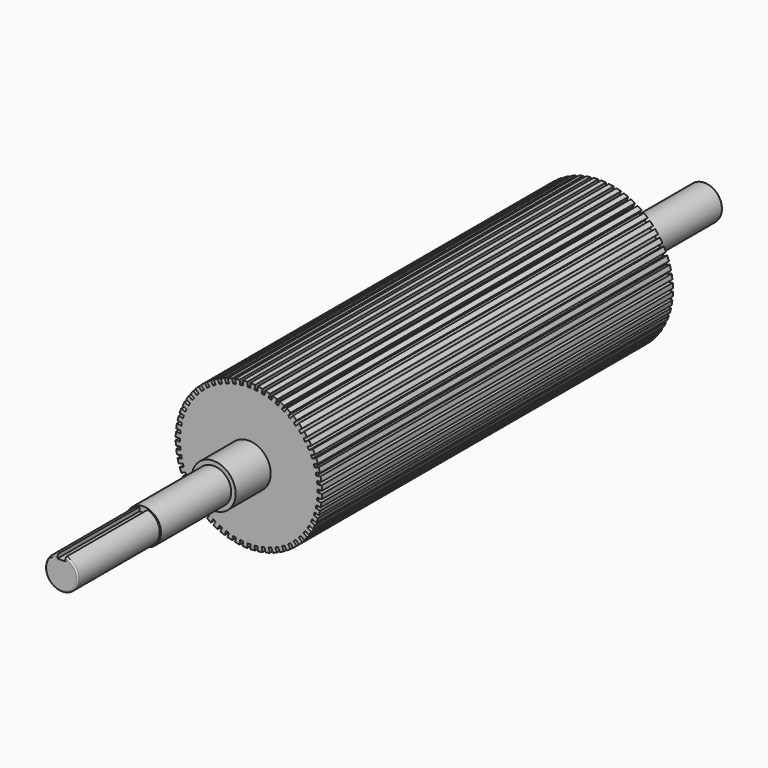
from build123d import *

# Parameters (mm, degrees)
F1_DEPTH = 150
F2_R     = 15
F3_DEPTH = 30
F5_R     = 12.0006643515
F6_DEPTH = 60
F9_DEPTH = 70
F10_R    = 1
F11_R    = 1


with BuildPart() as f1:
    # F0 (on Front) → F1 (new body, symmetric)
    with BuildSketch(Plane.XZ):
        with BuildLine():
            Line((47, 1), (49.9899989998, 1))
            ThreePointArc((49.9899989998, 1), (49.9314767377, 2.6167978121), (49.820677018, 4.2308558788))
            Line((49.820677018, 4.2308558788), (46.8470575456, 3.9183158782))
            Line((46.8470575456, 3.9183158782), (46.7425290823, 4.9128377736))
            Line((46.7425290823, 4.9128377736), (46.638000619, 5.9073596689))
            Line((46.638000619, 5.9073596689), (49.6116200915, 6.2198996696))
            ThreePointArc((49.6116200915, 6.2198996696), (49.3844170298, 7.821723252), (49.1055092732, 9.4153576153))
            Line((49.1055092732, 9.4153576153), (46.1808489253, 8.7937018677))
            Line((46.1808489253, 8.7937018677), (45.9729372345, 9.7718494684))
            Line((45.9729372345, 9.7718494684), (45.7650255437, 10.7499970692))
            Line((45.7650255437, 10.7499970692), (48.6896858915, 11.3716528168))
            ThreePointArc((48.6896858915, 11.3716528168), (48.2962913145, 12.9409522551), (47.8523312927, 14.4967027234))
            Line((47.8523312927, 14.4967027234), (45.0086732602, 13.5727422193))
            Line((45.0086732602, 13.5727422193), (44.6996562659, 14.5237987356))
            Line((44.6996562659, 14.5237987356), (44.3906392715, 15.4748552519))
            Line((44.3906392715, 15.4748552519), (47.234297304, 16.398815756))
            ThreePointArc((47.234297304, 16.398815756), (46.6790213249, 17.9183974773), (46.0748731569, 19.4192189229))
            Line((46.0748731569, 19.4192189229), (43.3433731523, 18.2030767669))
            Line((43.3433731523, 18.2030767669), (42.9366365092, 19.1166222246))
            Line((42.9366365092, 19.1166222246), (42.5298998661, 20.0301676822))
            Line((42.5298998661, 20.0301676822), (45.2613998707, 21.2463098382))
            ThreePointArc((45.2613998707, 21.2463098382), (44.5503262094, 22.699524987), (43.792609069, 24.1289740961))
            Line((43.792609069, 24.1289740961), (41.2031939779, 22.6339745962))
            Line((41.2031939779, 22.6339745962), (40.7031939779, 23.5))
            Line((40.7031939779, 23.5), (40.2031939779, 24.3660254038))
            Line((40.2031939779, 24.3660254038), (42.792609069, 25.8610249037))
            ThreePointArc((42.792609069, 25.8610249037), (41.9335283973, 27.2319517508), (41.0305439919, 28.5743671798))
            Line((41.0305439919, 28.5743671798), (38.6115839879, 26.8168898634))
            Line((38.6115839879, 26.8168898634), (38.0237987356, 27.6259068577))
            Line((38.0237987356, 27.6259068577), (37.4360134833, 28.4349238521))
            Line((37.4360134833, 28.4349238521), (39.8549734873, 30.1924011686))
            ThreePointArc((39.8549734873, 30.1924011686), (38.8572980728, 31.4660195525), (37.8189396887, 32.7066935171))
            Line((37.8189396887, 32.7066935171), (35.5969374038, 30.7059936734))
            Line((35.5969374038, 30.7059936734), (34.9278067974, 31.4491384989))
            Line((34.9278067974, 31.4491384989), (34.2586761911, 32.1922833243))
            Line((34.2586761911, 32.1922833243), (36.480678476, 34.1929831681))
            ThreePointArc((36.480678476, 34.1929831681), (35.3553390593, 35.3553390593), (34.1929831681, 36.480678476))
            Line((34.1929831681, 36.480678476), (32.1922833243, 34.2586761911))
            Line((32.1922833243, 34.2586761911), (31.4491384989, 34.9278067974))
            Line((31.4491384989, 34.9278067974), (30.7059936734, 35.5969374038))
            Line((30.7059936734, 35.5969374038), (32.7066935171, 37.8189396887))
            ThreePointArc((32.7066935171, 37.8189396887), (31.4660195525, 38.8572980728), (30.1924011686, 39.8549734873))
            Line((30.1924011686, 39.8549734873), (28.4349238521, 37.4360134833))
            Line((28.4349238521, 37.4360134833), (27.6259068577, 38.0237987356))
            Line((27.6259068577, 38.0237987356), (26.8168898634, 38.6115839879))
            Line((26.8168898634, 38.6115839879), (28.5743671798, 41.0305439919))
            ThreePointArc((28.5743671798, 41.0305439919), (27.2319517508, 41.9335283973), (25.8610249037, 42.792609069))
            Line((25.8610249037, 42.792609069), (24.3660254038, 40.2031939779))
            Line((24.3660254038, 40.2031939779), (23.5, 40.7031939779))
            Line((23.5, 40.7031939779), (22.6339745962, 41.2031939779))
            Line((22.6339745962, 41.2031939779), (24.1289740961, 43.792609069))
            ThreePointArc((24.1289740961, 43.792609069), (22.699524987, 44.5503262094), (21.2463098382, 45.2613998707))
            Line((21.2463098382, 45.2613998707), (20.0301676822, 42.5298998661))
            Line((20.0301676822, 42.5298998661), (19.1166222246, 42.9366365092))
            Line((19.1166222246, 42.9366365092), (18.2030767669, 43.3433731523))
            Line((18.2030767669, 43.3433731523), (19.4192189229, 46.0748731569))
            ThreePointArc((19.4192189229, 46.0748731569), (17.9183974773, 46.6790213249), (16.398815756, 47.234297304))
            Line((16.398815756, 47.234297304), (15.4748552519, 44.3906392715))
            Line((15.4748552519, 44.3906392715), (14.5237987356, 44.6996562659))
            Line((14.5237987356, 44.6996562659), (13.5727422193, 45.0086732602))
            Line((13.5727422193, 45.0086732602), (14.4967027234, 47.8523312927))
            ThreePointArc((14.4967027234, 47.8523312927), (12.9409522551, 48.2962913145), (11.3716528168, 48.6896858915))
            Line((11.3716528168, 48.6896858915), (10.7499970692, 45.7650255437))
            Line((10.7499970692, 45.7650255437), (9.7718494684, 45.9729372345))
            Line((9.7718494684, 45.9729372345), (8.7937018677, 46.1808489253))
            Line((8.7937018677, 46.1808489253), (9.4153576153, 49.1055092732))
            ThreePointArc((9.4153576153, 49.1055092732), (7.821723252, 49.3844170298), (6.2198996696, 49.6116200915))
            Line((6.2198996696, 49.6116200915), (5.9073596689, 46.638000619))
            Line((5.9073596689, 46.638000619), (4.9128377736, 46.7425290823))
            Line((4.9128377736, 46.7425290823), (3.9183158782, 46.8470575456))
            Line((3.9183158782, 46.8470575456), (4.2308558788, 49.820677018))
            ThreePointArc((4.2308558788, 49.820677018), (2.6167978121, 49.9314767377), (1, 49.9899989998))
            Line((1, 49.9899989998), (1, 47))
            Line((1, 47), (0, 47))
            Line((0, 47), (-1, 47))
            Line((-1, 47), (-1, 49.9899989998))
            ThreePointArc((-1, 49.9899989998), (-2.6167978121, 49.9314767377), (-4.2308558788, 49.820677018))
            Line((-4.2308558788, 49.820677018), (-3.9183158782, 46.8470575456))
            Line((-3.9183158782, 46.8470575456), (-4.9128377736, 46.7425290823))
            Line((-4.9128377736, 46.7425290823), (-5.9073596689, 46.638000619))
            Line((-5.9073596689, 46.638000619), (-6.2198996696, 49.6116200915))
            ThreePointArc((-6.2198996696, 49.6116200915), (-7.821723252, 49.3844170298), (-9.4153576153, 49.1055092732))
            Line((-9.4153576153, 49.1055092732), (-8.7937018677, 46.1808489253))
            Line((-8.7937018677, 46.1808489253), (-9.7718494684, 45.9729372345))
            Line((-9.7718494684, 45.9729372345), (-10.7499970692, 45.7650255437))
            Line((-10.7499970692, 45.7650255437), (-11.3716528168, 48.6896858915))
            ThreePointArc((-11.3716528168, 48.6896858915), (-12.9409522551, 48.2962913145), (-14.4967027234, 47.8523312927))
            Line((-14.4967027234, 47.8523312927), (-13.5727422193, 45.0086732602))
            Line((-13.5727422193, 45.0086732602), (-14.5237987356, 44.6996562659))
            Line((-14.5237987356, 44.6996562659), (-15.4748552519, 44.3906392715))
            Line((-15.4748552519, 44.3906392715), (-16.398815756, 47.234297304))
            ThreePointArc((-16.398815756, 47.234297304), (-17.9183974773, 46.6790213249), (-19.4192189229, 46.0748731569))
            Line((-19.4192189229, 46.0748731569), (-18.2030767669, 43.3433731523))
            Line((-18.2030767669, 43.3433731523), (-19.1166222246, 42.9366365092))
            Line((-19.1166222246, 42.9366365092), (-20.0301676822, 42.5298998661))
            Line((-20.0301676822, 42.5298998661), (-21.2463098382, 45.2613998707))
            ThreePointArc((-21.2463098382, 45.2613998707), (-22.699524987, 44.5503262094), (-24.1289740961, 43.792609069))
            Line((-24.1289740961, 43.792609069), (-22.6339745962, 41.2031939779))
            Line((-22.6339745962, 41.2031939779), (-23.5, 40.7031939779))
            Line((-23.5, 40.7031939779), (-24.3660254038, 40.2031939779))
            Line((-24.3660254038, 40.2031939779), (-25.8610249037, 42.792609069))
            ThreePointArc((-25.8610249037, 42.792609069), (-27.2319517508, 41.9335283973), (-28.5743671798, 41.0305439919))
            Line((-28.5743671798, 41.0305439919), (-26.8168898634, 38.6115839879))
            Line((-26.8168898634, 38.6115839879), (-27.6259068577, 38.0237987356))
            Line((-27.6259068577, 38.0237987356), (-28.4349238521, 37.4360134833))
            Line((-28.4349238521, 37.4360134833), (-30.1924011686, 39.8549734873))
            ThreePointArc((-30.1924011686, 39.8549734873), (-31.4660195525, 38.8572980728), (-32.7066935171, 37.8189396887))
            Line((-32.7066935171, 37.8189396887), (-30.7059936734, 35.5969374038))
            Line((-30.7059936734, 35.5969374038), (-31.4491384989, 34.9278067974))
            Line((-31.4491384989, 34.9278067974), (-32.1922833243, 34.2586761911))
            Line((-32.1922833243, 34.2586761911), (-34.1929831681, 36.480678476))
            ThreePointArc((-34.1929831681, 36.480678476), (-35.3553390593, 35.3553390593), (-36.480678476, 34.1929831681))
            Line((-36.480678476, 34.1929831681), (-34.2586761911, 32.1922833243))
            Line((-34.2586761911, 32.1922833243), (-34.9278067974, 31.4491384989))
            Line((-34.9278067974, 31.4491384989), (-35.5969374038, 30.7059936734))
            Line((-35.5969374038, 30.7059936734), (-37.8189396887, 32.7066935171))
            ThreePointArc((-37.8189396887, 32.7066935171), (-38.8572980728, 31.4660195525), (-39.8549734873, 30.1924011686))
            Line((-39.8549734873, 30.1924011686), (-37.4360134833, 28.4349238521))
            Line((-37.4360134833, 28.4349238521), (-38.0237987356, 27.6259068577))
            Line((-38.0237987356, 27.6259068577), (-38.6115839879, 26.8168898634))
            Line((-38.6115839879, 26.8168898634), (-41.0305439919, 28.5743671798))
            ThreePointArc((-41.0305439919, 28.5743671798), (-41.9335283973, 27.2319517508), (-42.792609069, 25.8610249037))
            Line((-42.792609069, 25.8610249037), (-40.2031939779, 24.3660254038))
            Line((-40.2031939779, 24.3660254038), (-40.7031939779, 23.5))
            Line((-40.7031939779, 23.5), (-41.2031939779, 22.6339745962))
            Line((-41.2031939779, 22.6339745962), (-43.792609069, 24.1289740961))
            ThreePointArc((-43.792609069, 24.1289740961), (-44.5503262094, 22.699524987), (-45.2613998707, 21.2463098382))
            Line((-45.2613998707, 21.2463098382), (-42.5298998661, 20.0301676822))
            Line((-42.5298998661, 20.0301676822), (-42.9366365092, 19.1166222246))
            Line((-42.9366365092, 19.1166222246), (-43.3433731523, 18.2030767669))
            Line((-43.3433731523, 18.2030767669), (-46.0748731569, 19.4192189229))
            ThreePointArc((-46.0748731569, 19.4192189229), (-46.6790213249, 17.9183974773), (-47.234297304, 16.398815756))
            Line((-47.234297304, 16.398815756), (-44.3906392715, 15.4748552519))
            Line((-44.3906392715, 15.4748552519), (-44.6996562659, 14.5237987356))
            Line((-44.6996562659, 14.5237987356), (-45.0086732602, 13.5727422193))
            Line((-45.0086732602, 13.5727422193), (-47.8523312927, 14.4967027234))
            ThreePointArc((-47.8523312927, 14.4967027234), (-48.2962913145, 12.9409522551), (-48.6896858915, 11.3716528168))
            Line((-48.6896858915, 11.3716528168), (-45.7650255437, 10.7499970692))
            Line((-45.7650255437, 10.7499970692), (-45.9729372345, 9.7718494684))
            Line((-45.9729372345, 9.7718494684), (-46.1808489253, 8.7937018677))
            Line((-46.1808489253, 8.7937018677), (-49.1055092732, 9.4153576153))
            ThreePointArc((-49.1055092732, 9.4153576153), (-49.3844170298, 7.821723252), (-49.6116200915, 6.2198996696))
            Line((-49.6116200915, 6.2198996696), (-46.638000619, 5.9073596689))
            Line((-46.638000619, 5.9073596689), (-46.7425290823, 4.9128377736))
            Line((-46.7425290823, 4.9128377736), (-46.8470575456, 3.9183158782))
            Line((-46.8470575456, 3.9183158782), (-49.820677018, 4.2308558788))
            ThreePointArc((-49.820677018, 4.2308558788), (-49.9314767377, 2.6167978121), (-49.9899989998, 1))
            Line((-49.9899989998, 1), (-47, 1))
            Line((-47, 1), (-47, 0))
            Line((-47, 0), (-47, -1))
            Line((-47, -1), (-49.9899989998, -1))
            ThreePointArc((-49.9899989998, -1), (-49.9314767377, -2.6167978121), (-49.820677018, -4.2308558788))
            Line((-49.820677018, -4.2308558788), (-46.8470575456, -3.9183158782))
            Line((-46.8470575456, -3.9183158782), (-46.7425290823, -4.9128377736))
            Line((-46.7425290823, -4.9128377736), (-46.638000619, -5.9073596689))
            Line((-46.638000619, -5.9073596689), (-49.6116200915, -6.2198996696))
            ThreePointArc((-49.6116200915, -6.2198996696), (-49.3844170298, -7.821723252), (-49.1055092732, -9.4153576153))
            Line((-49.1055092732, -9.4153576153), (-46.1808489253, -8.7937018677))
            Line((-46.1808489253, -8.7937018677), (-45.9729372345, -9.7718494684))
            Line((-45.9729372345, -9.7718494684), (-45.7650255437, -10.7499970692))
            Line((-45.7650255437, -10.7499970692), (-48.6896858915, -11.3716528168))
            ThreePointArc((-48.6896858915, -11.3716528168), (-48.2962913145, -12.9409522551), (-47.8523312927, -14.4967027234))
            Line((-47.8523312927, -14.4967027234), (-45.0086732602, -13.5727422193))
            Line((-45.0086732602, -13.5727422193), (-44.6996562659, -14.5237987356))
            Line((-44.6996562659, -14.5237987356), (-44.3906392715, -15.4748552519))
            Line((-44.3906392715, -15.4748552519), (-47.234297304, -16.398815756))
            ThreePointArc((-47.234297304, -16.398815756), (-46.6790213249, -17.9183974773), (-46.0748731569, -19.4192189229))
            Line((-46.0748731569, -19.4192189229), (-43.3433731523, -18.2030767669))
            Line((-43.3433731523, -18.2030767669), (-42.9366365092, -19.1166222246))
            Line((-42.9366365092, -19.1166222246), (-42.5298998661, -20.0301676822))
            Line((-42.5298998661, -20.0301676822), (-45.2613998707, -21.2463098382))
            ThreePointArc((-45.2613998707, -21.2463098382), (-44.5503262094, -22.699524987), (-43.792609069, -24.1289740961))
            Line((-43.792609069, -24.1289740961), (-41.2031939779, -22.6339745962))
            Line((-41.2031939779, -22.6339745962), (-40.7031939779, -23.5))
            Line((-40.7031939779, -23.5), (-40.2031939779, -24.3660254038))
            Line((-40.2031939779, -24.3660254038), (-42.792609069, -25.8610249037))
            ThreePointArc((-42.792609069, -25.8610249037), (-41.9335283973, -27.2319517508), (-41.0305439919, -28.5743671798))
            Line((-41.0305439919, -28.5743671798), (-38.6115839879, -26.8168898634))
            Line((-38.6115839879, -26.8168898634), (-38.0237987356, -27.6259068577))
            Line((-38.0237987356, -27.6259068577), (-37.4360134833, -28.4349238521))
            Line((-37.4360134833, -28.4349238521), (-39.8549734873, -30.1924011686))
            ThreePointArc((-39.8549734873, -30.1924011686), (-38.8572980728, -31.4660195525), (-37.8189396887, -32.7066935171))
            Line((-37.8189396887, -32.7066935171), (-35.5969374038, -30.7059936734))
            Line((-35.5969374038, -30.7059936734), (-34.9278067974, -31.4491384989))
            Line((-34.9278067974, -31.4491384989), (-34.2586761911, -32.1922833243))
            Line((-34.2586761911, -32.1922833243), (-36.480678476, -34.1929831681))
            ThreePointArc((-36.480678476, -34.1929831681), (-35.3553390593, -35.3553390593), (-34.1929831681, -36.480678476))
            Line((-34.1929831681, -36.480678476), (-32.1922833243, -34.2586761911))
            Line((-32.1922833243, -34.2586761911), (-31.4491384989, -34.9278067974))
            Line((-31.4491384989, -34.9278067974), (-30.7059936734, -35.5969374038))
            Line((-30.7059936734, -35.5969374038), (-32.7066935171, -37.8189396887))
            ThreePointArc((-32.7066935171, -37.8189396887), (-31.4660195525, -38.8572980728), (-30.1924011686, -39.8549734873))
            Line((-30.1924011686, -39.8549734873), (-28.4349238521, -37.4360134833))
            Line((-28.4349238521, -37.4360134833), (-27.6259068577, -38.0237987356))
            Line((-27.6259068577, -38.0237987356), (-26.8168898634, -38.6115839879))
            Line((-26.8168898634, -38.6115839879), (-28.5743671798, -41.0305439919))
            ThreePointArc((-28.5743671798, -41.0305439919), (-27.2319517508, -41.9335283973), (-25.8610249037, -42.792609069))
            Line((-25.8610249037, -42.792609069), (-24.3660254038, -40.2031939779))
            Line((-24.3660254038, -40.2031939779), (-23.5, -40.7031939779))
            Line((-23.5, -40.7031939779), (-22.6339745962, -41.2031939779))
            Line((-22.6339745962, -41.2031939779), (-24.1289740961, -43.792609069))
            ThreePointArc((-24.1289740961, -43.792609069), (-22.699524987, -44.5503262094), (-21.2463098382, -45.2613998707))
            Line((-21.2463098382, -45.2613998707), (-20.0301676822, -42.5298998661))
            Line((-20.0301676822, -42.5298998661), (-19.1166222246, -42.9366365092))
            Line((-19.1166222246, -42.9366365092), (-18.2030767669, -43.3433731523))
            Line((-18.2030767669, -43.3433731523), (-19.4192189229, -46.0748731569))
            ThreePointArc((-19.4192189229, -46.0748731569), (-17.9183974773, -46.6790213249), (-16.398815756, -47.234297304))
            Line((-16.398815756, -47.234297304), (-15.4748552519, -44.3906392715))
            Line((-15.4748552519, -44.3906392715), (-14.5237987356, -44.6996562659))
            Line((-14.5237987356, -44.6996562659), (-13.5727422193, -45.0086732602))
            Line((-13.5727422193, -45.0086732602), (-14.4967027234, -47.8523312927))
            ThreePointArc((-14.4967027234, -47.8523312927), (-12.9409522551, -48.2962913145), (-11.3716528168, -48.6896858915))
            Line((-11.3716528168, -48.6896858915), (-10.7499970692, -45.7650255437))
            Line((-10.7499970692, -45.7650255437), (-9.7718494684, -45.9729372345))
            Line((-9.7718494684, -45.9729372345), (-8.7937018677, -46.1808489253))
            Line((-8.7937018677, -46.1808489253), (-9.4153576153, -49.1055092732))
            ThreePointArc((-9.4153576153, -49.1055092732), (-7.821723252, -49.3844170298), (-6.2198996696, -49.6116200915))
            Line((-6.2198996696, -49.6116200915), (-5.9073596689, -46.638000619))
            Line((-5.9073596689, -46.638000619), (-4.9128377736, -46.7425290823))
            Line((-4.9128377736, -46.7425290823), (-3.9183158782, -46.8470575456))
            Line((-3.9183158782, -46.8470575456), (-4.2308558788, -49.820677018))
            ThreePointArc((-4.2308558788, -49.820677018), (-2.6167978121, -49.9314767377), (-1, -49.9899989998))
            Line((-1, -49.9899989998), (-1, -47))
            Line((-1, -47), (0, -47))
            Line((0, -47), (1, -47))
            Line((1, -47), (1, -49.9899989998))
            ThreePointArc((1, -49.9899989998), (2.6167978121, -49.9314767377), (4.2308558788, -49.820677018))
            Line((4.2308558788, -49.820677018), (3.9183158782, -46.8470575456))
            Line((3.9183158782, -46.8470575456), (4.9128377736, -46.7425290823))
            Line((4.9128377736, -46.7425290823), (5.9073596689, -46.638000619))
            Line((5.9073596689, -46.638000619), (6.2198996696, -49.6116200915))
            ThreePointArc((6.2198996696, -49.6116200915), (7.821723252, -49.3844170298), (9.4153576153, -49.1055092732))
            Line((9.4153576153, -49.1055092732), (8.7937018677, -46.1808489253))
            Line((8.7937018677, -46.1808489253), (9.7718494684, -45.9729372345))
            Line((9.7718494684, -45.9729372345), (10.7499970692, -45.7650255437))
            Line((10.7499970692, -45.7650255437), (11.3716528168, -48.6896858915))
            ThreePointArc((11.3716528168, -48.6896858915), (12.9409522551, -48.2962913145), (14.4967027234, -47.8523312927))
            Line((14.4967027234, -47.8523312927), (13.5727422193, -45.0086732602))
            Line((13.5727422193, -45.0086732602), (14.5237987356, -44.6996562659))
            Line((14.5237987356, -44.6996562659), (15.4748552519, -44.3906392715))
            Line((15.4748552519, -44.3906392715), (16.398815756, -47.234297304))
            ThreePointArc((16.398815756, -47.234297304), (17.9183974773, -46.6790213249), (19.4192189229, -46.0748731569))
            Line((19.4192189229, -46.0748731569), (18.2030767669, -43.3433731523))
            Line((18.2030767669, -43.3433731523), (19.1166222246, -42.9366365092))
            Line((19.1166222246, -42.9366365092), (20.0301676822, -42.5298998661))
            Line((20.0301676822, -42.5298998661), (21.2463098382, -45.2613998707))
            ThreePointArc((21.2463098382, -45.2613998707), (22.699524987, -44.5503262094), (24.1289740961, -43.792609069))
            Line((24.1289740961, -43.792609069), (22.6339745962, -41.2031939779))
            Line((22.6339745962, -41.2031939779), (23.5, -40.7031939779))
            Line((23.5, -40.7031939779), (24.3660254038, -40.2031939779))
            Line((24.3660254038, -40.2031939779), (25.8610249037, -42.792609069))
            ThreePointArc((25.8610249037, -42.792609069), (27.2319517508, -41.9335283973), (28.5743671798, -41.0305439919))
            Line((28.5743671798, -41.0305439919), (26.8168898634, -38.6115839879))
            Line((26.8168898634, -38.6115839879), (27.6259068577, -38.0237987356))
            Line((27.6259068577, -38.0237987356), (28.4349238521, -37.4360134833))
            Line((28.4349238521, -37.4360134833), (30.1924011686, -39.8549734873))
            ThreePointArc((30.1924011686, -39.8549734873), (31.4660195525, -38.8572980728), (32.7066935171, -37.8189396887))
            Line((32.7066935171, -37.8189396887), (30.7059936734, -35.5969374038))
            Line((30.7059936734, -35.5969374038), (31.4491384989, -34.9278067974))
            Line((31.4491384989, -34.9278067974), (32.1922833243, -34.2586761911))
            Line((32.1922833243, -34.2586761911), (34.1929831681, -36.480678476))
            ThreePointArc((34.1929831681, -36.480678476), (35.3553390593, -35.3553390593), (36.480678476, -34.1929831681))
            Line((36.480678476, -34.1929831681), (34.2586761911, -32.1922833243))
            Line((34.2586761911, -32.1922833243), (34.9278067974, -31.4491384989))
            Line((34.9278067974, -31.4491384989), (35.5969374038, -30.7059936734))
            Line((35.5969374038, -30.7059936734), (37.8189396887, -32.7066935171))
            ThreePointArc((37.8189396887, -32.7066935171), (38.8572980728, -31.4660195525), (39.8549734873, -30.1924011686))
            Line((39.8549734873, -30.1924011686), (37.4360134833, -28.4349238521))
            Line((37.4360134833, -28.4349238521), (38.0237987356, -27.6259068577))
            Line((38.0237987356, -27.6259068577), (38.6115839879, -26.8168898634))
            Line((38.6115839879, -26.8168898634), (41.0305439919, -28.5743671798))
            ThreePointArc((41.0305439919, -28.5743671798), (41.9335283973, -27.2319517508), (42.792609069, -25.8610249037))
            Line((42.792609069, -25.8610249037), (40.2031939779, -24.3660254038))
            Line((40.2031939779, -24.3660254038), (40.7031939779, -23.5))
            Line((40.7031939779, -23.5), (41.2031939779, -22.6339745962))
            Line((41.2031939779, -22.6339745962), (43.792609069, -24.1289740961))
            ThreePointArc((43.792609069, -24.1289740961), (44.5503262094, -22.699524987), (45.2613998707, -21.2463098382))
            Line((45.2613998707, -21.2463098382), (42.5298998661, -20.0301676822))
            Line((42.5298998661, -20.0301676822), (42.9366365092, -19.1166222246))
            Line((42.9366365092, -19.1166222246), (43.3433731523, -18.2030767669))
            Line((43.3433731523, -18.2030767669), (46.0748731569, -19.4192189229))
            ThreePointArc((46.0748731569, -19.4192189229), (46.6790213249, -17.9183974773), (47.234297304, -16.398815756))
            Line((47.234297304, -16.398815756), (44.3906392715, -15.4748552519))
            Line((44.3906392715, -15.4748552519), (44.6996562659, -14.5237987356))
            Line((44.6996562659, -14.5237987356), (45.0086732602, -13.5727422193))
            Line((45.0086732602, -13.5727422193), (47.8523312927, -14.4967027234))
            ThreePointArc((47.8523312927, -14.4967027234), (48.2962913145, -12.9409522551), (48.6896858915, -11.3716528168))
            Line((48.6896858915, -11.3716528168), (45.7650255437, -10.7499970692))
            Line((45.7650255437, -10.7499970692), (45.9729372345, -9.7718494684))
            Line((45.9729372345, -9.7718494684), (46.1808489253, -8.7937018677))
            Line((46.1808489253, -8.7937018677), (49.1055092732, -9.4153576153))
            ThreePointArc((49.1055092732, -9.4153576153), (49.3844170298, -7.821723252), (49.6116200915, -6.2198996696))
            Line((49.6116200915, -6.2198996696), (46.638000619, -5.9073596689))
            Line((46.638000619, -5.9073596689), (46.7425290823, -4.9128377736))
            Line((46.7425290823, -4.9128377736), (46.8470575456, -3.9183158782))
            Line((46.8470575456, -3.9183158782), (49.820677018, -4.2308558788))
            ThreePointArc((49.820677018, -4.2308558788), (49.9314767377, -2.6167978121), (49.9899989998, -1))
            Line((49.9899989998, -1), (47, -1))
            Line((47, -1), (47, 0))
            Line((47, 0), (47, 1))
        make_face()
    extrude(amount=F1_DEPTH, both=True)

    # F2 (on face) → F3 (join)
    with BuildSketch(Plane(origin=(0, 150, 0), x_dir=(-1, 0, 0), z_dir=(0, 1, 0))):
        Circle(F2_R)
        Circle(F2_R)
    extrude(amount=F3_DEPTH)

    # F4: F1 across plane


with BuildPart() as f1_1:
    add(f1.part)
    add(f1.part.mirror(Plane.XZ))

    # F5 (on face) → F6 (join)
    with BuildSketch(Plane.XZ.offset(180)):
        Circle(F5_R)
    extrude(amount=F6_DEPTH)

    # F7: F1 across plane


with BuildPart() as f1_2:
    add(f1_1.part)
    add(f1_1.part.mirror(Plane.XZ))

    # F8 (on face) → F9 (join)
    with BuildSketch(Plane.XZ.offset(240)):
        with BuildLine():
            ThreePointArc((-2.75, 10.7797553312), (-6.825389183, -8.7851970667), (11.125, 0))
            ThreePointArc((11.125, 0), (8.7851970667, 6.825389183), (2.75, 10.7797553312))
            Line((2.75, 10.7797553312), (2.75, 8.125))
            Line((2.75, 8.125), (0, 8.125))
            Line((0, 8.125), (-2.75, 8.125))
            Line((-2.75, 8.125), (-2.75, 10.7797553312))
        make_face()
    extrude(amount=F9_DEPTH)

    # F10
    f10_edges = [f1_2.edges().sort_by_distance(p)[0] for p in [
        (-6.825389, -310, -8.785197),
    ]]
    fillet(f10_edges, radius=F10_R)

    # F11
    f11_edges = [f1_2.edges().sort_by_distance(p)[0] for p in [
        (-12.000664, 240, 0),
    ]]
    fillet(f11_edges, radius=F11_R)


solid = f1_2.part
